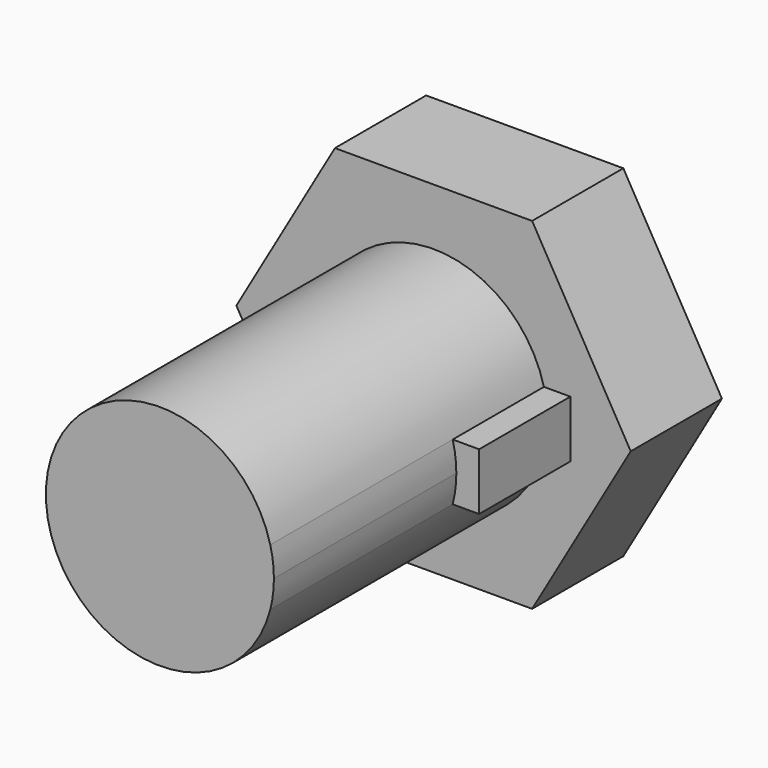
from build123d import *

# Parameters (mm, degrees)
F1_DEPTH = 30
F2_DEPTH = 10
F3_DEPTH = 10


with BuildPart() as f1:
    # F0 (on Front) → F1 (new body)
    with BuildSketch(Plane.XZ):
        with BuildLine():
            ThreePointArc((-155.784729, -2.5), (-155.546891, -1.260043), (-155.467188, 0))
            ThreePointArc((-155.467188, 0), (-155.546891, 1.260043), (-155.784729, 2.5))
            ThreePointArc((-155.784729, 2.5), (-175.467188, 0), (-155.784729, -2.5))
        make_face()
    extrude(amount=F1_DEPTH)

    # F0 (on Front) → F2 (join)
    with BuildSketch(Plane.XZ):
        with BuildLine():
            ThreePointArc((-155.784729, 2.5), (-155.546891, 1.260043), (-155.467188, 0))
            ThreePointArc((-155.467188, 0), (-155.546891, -1.260043), (-155.784729, -2.5))
            Line((-155.784729, -2.5), (-153.467188, -2.5))
            Line((-153.467188, -2.5), (-153.467188, 2.5))
            Line((-153.467188, 2.5), (-155.784729, 2.5))
        make_face()
    extrude(amount=F2_DEPTH)

    # F0 (on Front) → F3 (join)
    with BuildSketch(Plane.XZ):
        Polygon((-174.113927, -14.976591), (-156.820449, -14.976591), (-148.17371, 0), (-156.820449, 14.976591), (-174.113927, 14.976591), (-182.760665, 0), align=None)
        with BuildLine():
            ThreePointArc((-155.784729, -2.5), (-175.467188, 0), (-155.784729, 2.5))
            Line((-155.784729, 2.5), (-153.467188, 2.5))
            Line((-153.467188, 2.5), (-153.467188, -2.5))
            Line((-153.467188, -2.5), (-155.784729, -2.5))
        make_face(mode=Mode.SUBTRACT)
        with BuildLine():
            ThreePointArc((-155.784729, -2.5), (-155.546891, -1.260043), (-155.467188, 0))
            ThreePointArc((-155.467188, 0), (-155.546891, 1.260043), (-155.784729, 2.5))
            ThreePointArc((-155.784729, 2.5), (-175.467188, 0), (-155.784729, -2.5))
        make_face()
        with BuildLine():
            ThreePointArc((-155.784729, 2.5), (-155.546891, 1.260043), (-155.467188, 0))
            ThreePointArc((-155.467188, 0), (-155.546891, -1.260043), (-155.784729, -2.5))
            Line((-155.784729, -2.5), (-153.467188, -2.5))
            Line((-153.467188, -2.5), (-153.467188, 2.5))
            Line((-153.467188, 2.5), (-155.784729, 2.5))
        make_face()
    extrude(amount=-F3_DEPTH)


solid = f1.part
